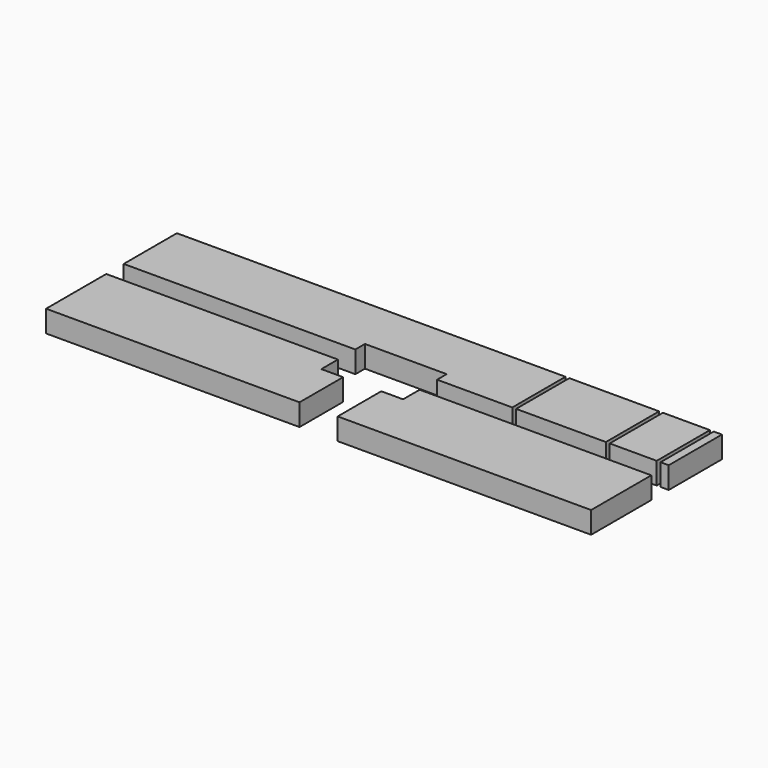
from build123d import *

# Parameters (mm, degrees)
F0_W     = 100
F0_H     = 30
F2_DEPTH = 4
F1_W     = 7
F1_H     = 15
F1_W_2   = 15
F1_H_2   = 4
F1_H_3   = 2.2
F1_W_3   = 42.5
F1_W_4   = 0.7
F1_H_4   = 28.988546592
F1_H_5   = 35.6163074195
F1_H_6   = 22.5041628748
F3_DEPTH = 4


with BuildPart() as f2:
    # F0 (on Top) → F2 (new body)
    with BuildSketch(Plane.XY):
        Rectangle(F0_W, F0_H)
    extrude(amount=F2_DEPTH)

    # F1 (on Top) → F3 (cut)
    with BuildSketch(Plane.XY):
        Polygon((3.5, -5), (7.5, -5), (7.5, -1.2), (-7.5, -1.2), (-7.5, -5), (-3.5, -5), align=None)
        with Locations((0, -12.5)):
            Rectangle(F1_W, F1_H)
        with Locations((0, 0.8)):
            Rectangle(F1_W_2, F1_H_2)
        Polygon((7.5, 2.8), (7.5, -1.2), (50, -1.2), (50, 2.8), (48.5, 2.8), (47.8, 2.8), (39.172, 2.8), (38.472, 2.8), (22, 2.8), (21.3, 2.8), align=None)
        with Locations((0, 3.9)):
            Rectangle(F1_W_2, F1_H_3)
        with Locations((-28.75, 0.8)):
            Rectangle(F1_W_3, F1_H_2)
        with Locations((21.65, 17.294273296)):
            Rectangle(F1_W_4, F1_H_4)
        with Locations((48.15, 20.6081537098)):
            Rectangle(F1_W_4, F1_H_5)
        with Locations((38.822, 14.0520814374)):
            Rectangle(F1_W_4, F1_H_6)
    extrude(amount=F3_DEPTH, mode=Mode.SUBTRACT)


solid = f2.part
